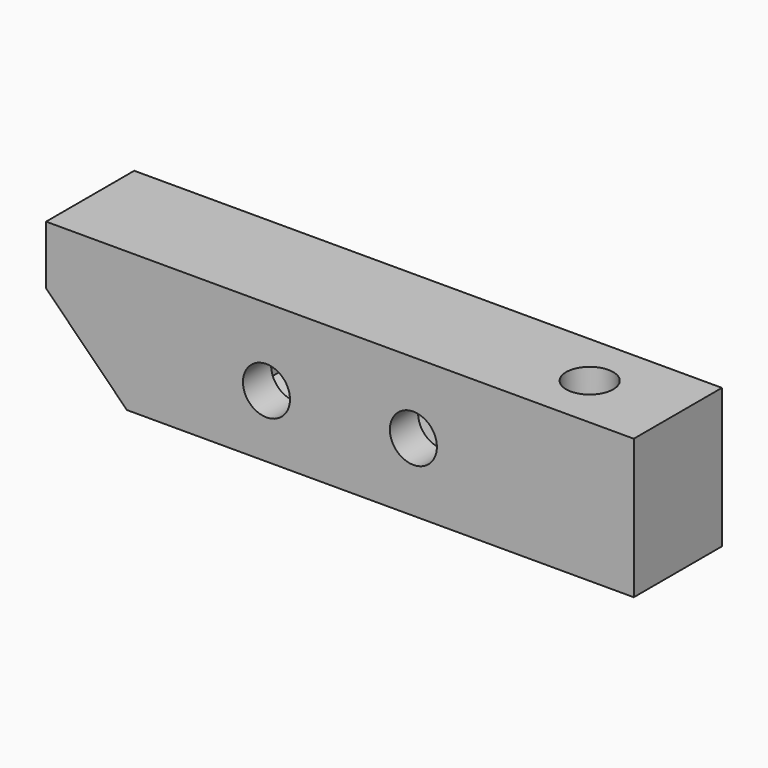
from build123d import *

# Parameters (mm, degrees)
F1_DEPTH  = 7.5
F2_R      = 3.2
F3_DEPTH  = 15.001
F5_DEPTH  = 2.7
F7_DEPTH  = 5.9
F8_R      = 3.2
F9_DEPTH  = 15.001
F11_DEPTH = 2.7
F12_R     = 3.2
F13_DEPTH = 15.001
F16_DEPTH = 5.4
F17_W     = 80
F17_H     = 15
F18_DEPTH = 4
F19_R     = 3.2
F20_DEPTH = 13
F21_R     = 3.2
F22_DEPTH = 4


with BuildPart() as f1:
    # F0 (on Front) → F1 (new body, symmetric)
    with BuildSketch(Plane.XZ):
        Polygon((-69, 0), (0, 0), (0, 15), (-80, 15), (-80, 11), align=None)
    extrude(amount=F1_DEPTH, both=True)

    # F2 (on face) → F3 (cut, through all)
    with BuildSketch(Plane.XY.offset(15)):
        with Locations((-12, 0)):
            Circle(F2_R)
    extrude(amount=-F3_DEPTH, mode=Mode.SUBTRACT)

    # F4 (on Front) → F5 (cut, symmetric)
    with BuildSketch(Plane.XZ):
        Polygon((-26.9977786002, 4.1), (-23.9955572004, 9.3), (-23.9955572004, 15), (-36.0044427996, 15), (-36.0044427996, 9.3), (-33.0022213998, 4.1), align=None)
    extrude(amount=F5_DEPTH, both=True, mode=Mode.SUBTRACT)

    # F6 (on face) → F7 (cut)
    with BuildSketch(Plane.XY.offset(15)):
        Polygon((-15.0022213998, -5.2), (-8.9977786002, -5.2), (-5.9955572004, 0), (-8.9977786002, 5.2), (-15.0022213998, 5.2), (-18.0044427996, 0), align=None)
    extrude(amount=-F7_DEPTH, mode=Mode.SUBTRACT)

    # F8 (on face) → F9 (cut, through all)
    with BuildSketch(Plane.XZ.offset(7.5)):
        with Locations((-30, 9.3)):
            Circle(F8_R)
    extrude(amount=-F9_DEPTH, mode=Mode.SUBTRACT)

    # F10 (on Front) → F11 (cut, symmetric)
    with BuildSketch(Plane.XZ):
        Polygon((-50, 2.4911144009), (-44.8, 5.4933358006), (-44.8, 11.4977786002), (-44.8, 15), (-55.2, 15), (-55.2, 11.4977786002), (-55.2, 5.4933358006), align=None)
    extrude(amount=F11_DEPTH, both=True, mode=Mode.SUBTRACT)

    # F12 (on face) → F13 (cut, through all)
    with BuildSketch(Plane.XZ.offset(7.5)):
        with Locations((-50, 8.4955572004)):
            Circle(F12_R)
    extrude(amount=-F13_DEPTH, mode=Mode.SUBTRACT)

    # F15 (on offset) → F16 (cut)
    with BuildSketch(Plane(origin=(-31.6715728753, 0, -31.6715728753), x_dir=(0.7071067812, 0, -0.7071067812), z_dir=(-0.7071067812, 0, -0.7071067812))):
        Polygon((-48.3422742884, 0), (-51.3444956882, 5.2), (-57.3489384878, 5.2), (-66.0035713375, 5.2), (-66.0035713375, -5.2), (-57.3489384878, -5.2), (-51.3444956882, -5.2), align=None)
    extrude(amount=-F16_DEPTH, mode=Mode.SUBTRACT)

    # F17 (on face) → F18 (join)
    with BuildSketch(Plane.XY.offset(15)):
        with Locations((-40, 0)):
            Rectangle(F17_W, F17_H)
    extrude(amount=F18_DEPTH)

    # F19 (on face) → F20 (cut)
    with BuildSketch(Plane(origin=(-34.5, 0, -34.5), x_dir=(0.7071067812, 0, -0.7071067812), z_dir=(-0.7071067812, 0, -0.7071067812))):
        with Locations((-54.346717088, 0)):
            Circle(F19_R)
    extrude(amount=-F20_DEPTH, mode=Mode.SUBTRACT)

    # F21 (on face) → F22 (cut, through all)
    with BuildSketch(Plane.XY.offset(19)):
        with Locations((-12, 0)):
            Circle(F21_R)
    extrude(amount=-F22_DEPTH, mode=Mode.SUBTRACT)


solid = f1.part
